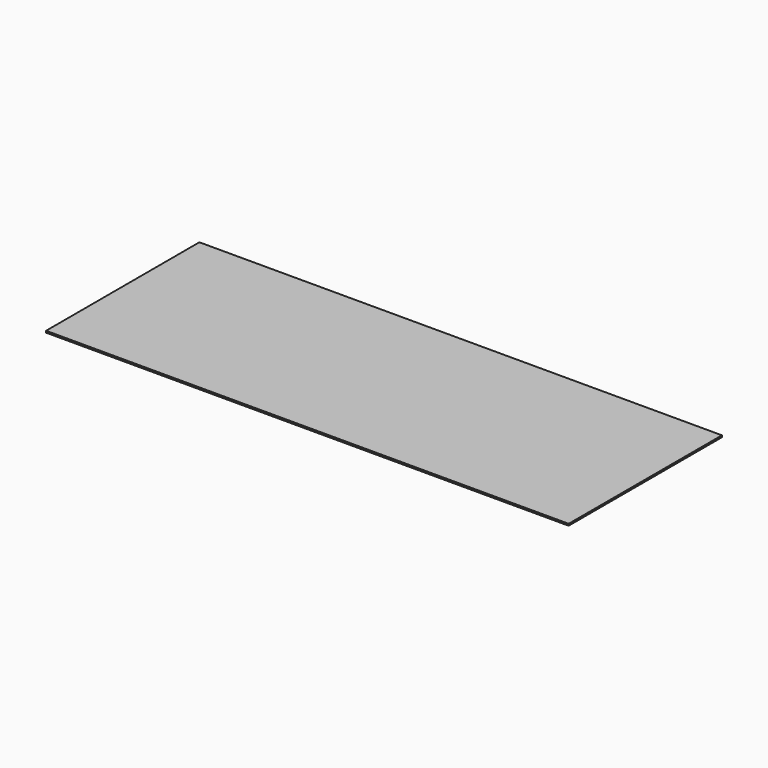
from build123d import *

# Parameters (mm, degrees)
SKETCH001_W = 900
SKETCH001_H = 330
PAD_DEPTH   = 3


with BuildPart() as part:
    # Sketch001 → Pad (new body)
    with BuildSketch(Plane.XY):
        with Locations((450, 165)):
            Rectangle(SKETCH001_W, SKETCH001_H)
    extrude(amount=PAD_DEPTH)


solid = part.part
